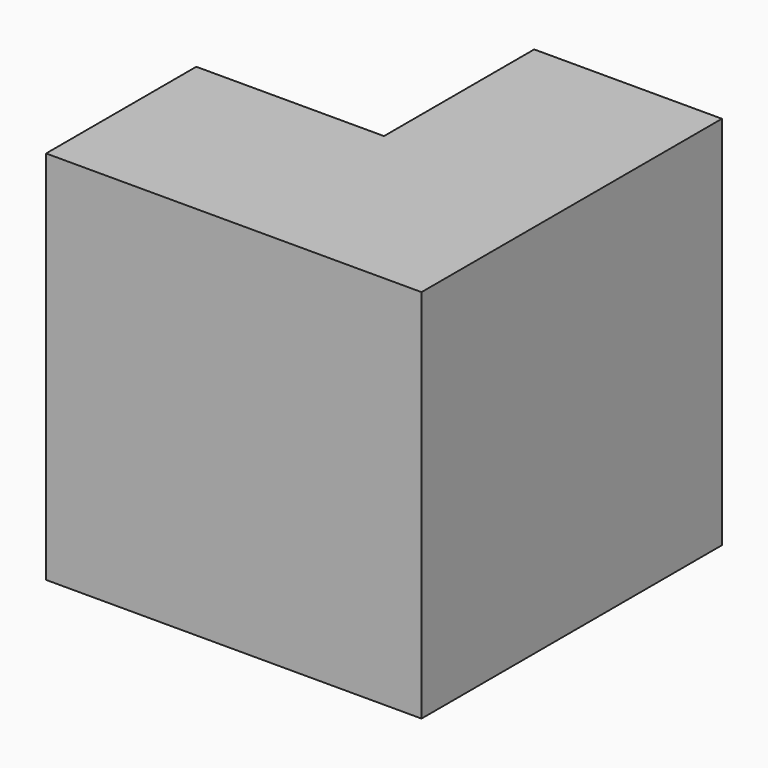
from build123d import *

# Parameters (mm, degrees)
F0_W     = 25.396969
F0_H     = 25.4
F1_DEPTH = 50.8
F2_DEPTH = 25.4


with BuildPart() as f1:
    # F0 (on Front) → F1 (new body)
    with BuildSketch(Plane.XZ):
        Polygon((-50.793938, 0), (0, 0), (0, 50.793935), (-25.396969, 50.793935), (-25.396969, 25.393935), (-50.793938, 25.393935), align=None)
        with Locations((-38.095453, 38.093935)):
            Rectangle(F0_W, F0_H)
    extrude(amount=F1_DEPTH)

    # F0 (on Front) → F2 (cut)
    with BuildSketch(Plane.XZ):
        with Locations((-38.095453, 38.093935)):
            Rectangle(F0_W, F0_H)
    extrude(amount=F2_DEPTH, mode=Mode.SUBTRACT)


solid = f1.part
